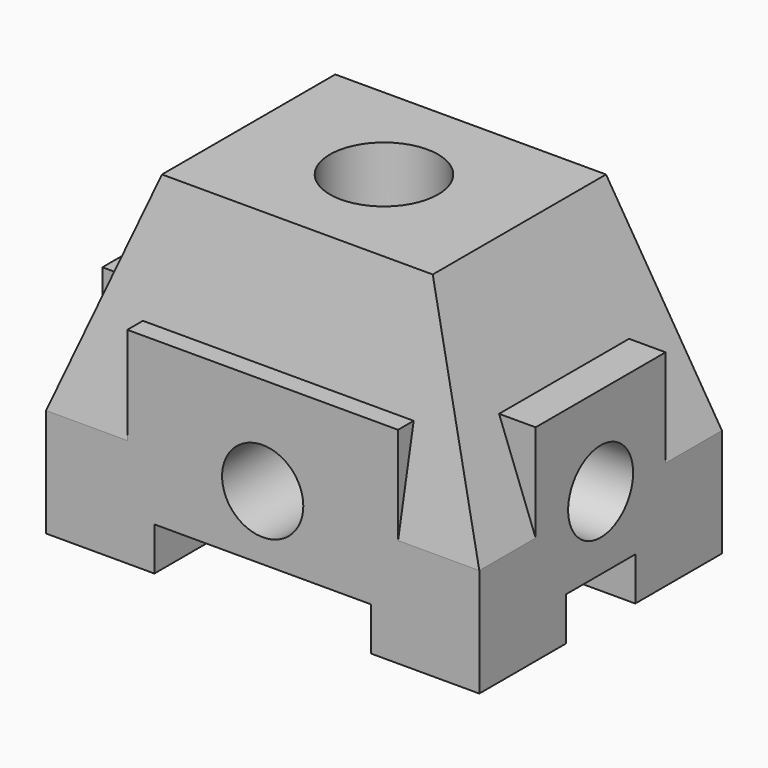
from build123d import *

# Parameters (mm, degrees)
F0_W      = 160
F0_H      = 112
F1_DEPTH  = 40
F2_W      = 80
F2_H      = 16
F3_DEPTH  = 112
F4_W      = 32
F4_H      = 16
F5_DEPTH  = 160
F6_W      = 100
F6_H      = 112
F7_DEPTH  = 36
F8_W      = 30
F8_H      = 60
F9_DEPTH  = 36
F10_W     = 30
F10_H     = 60
F11_DEPTH = 36
F15_W     = 100
F15_H     = 80
F13_W     = 160
F13_H     = 112
F17_R     = 20
F18_DEPTH = 120
F19_R     = 15
F20_DEPTH = 160
F21_R     = 15
F22_DEPTH = 112


with BuildPart() as f1:
    # F0 (on Top) → F1 (new body)
    with BuildSketch(Plane.XY):
        Rectangle(F0_W, F0_H)
    extrude(amount=F1_DEPTH)

    # F2 (on face) → F3 (cut)
    with BuildSketch(Plane.XZ.offset(56)):
        with Locations((0, 8)):
            Rectangle(F2_W, F2_H)
    extrude(amount=-F3_DEPTH, mode=Mode.SUBTRACT)

    # F4 (on face) → F5 (cut)
    with BuildSketch(Plane(origin=(-80, 0, 0), x_dir=(0, -1, 0), z_dir=(-1, 0, 0))):
        with Locations((0, 8)):
            Rectangle(F4_W, F4_H)
    extrude(amount=-F5_DEPTH, mode=Mode.SUBTRACT)

    # F6 (on face) → F7 (join)
    with BuildSketch(Plane.XY.offset(40)):
        Rectangle(F6_W, F6_H)
    extrude(amount=F7_DEPTH)

    # F8 (on face) → F9 (join)
    with BuildSketch(Plane.XY.offset(40)):
        with Locations((65, 0)):
            Rectangle(F8_W, F8_H)
    extrude(amount=F9_DEPTH)

    # F10 (on face) → F11 (join)
    with BuildSketch(Plane.XY.offset(40)):
        with Locations((-65, 0)):
            Rectangle(F10_W, F10_H)
    extrude(amount=F11_DEPTH)

    # F15 (on offset) → F16 section 0
    with BuildSketch(Plane.XY.offset(120)):
        Rectangle(F15_W, F15_H)
    # F13 (on offset) → F16 section 1
    with BuildSketch(Plane.XY.offset(40)):
        Rectangle(F13_W, F13_H)
    loft()

    # F17 (on offset) → F18 (cut)
    with BuildSketch(Plane.XY.offset(120)):
        Circle(F17_R)
    extrude(amount=-F18_DEPTH, mode=Mode.SUBTRACT)

    # F19 (on face) → F20 (cut)
    with BuildSketch(Plane.YZ.offset(80)):
        with Locations((0, 42.966103)):
            Circle(F19_R)
    extrude(amount=-F20_DEPTH, mode=Mode.SUBTRACT)

    # F21 (on face) → F22 (cut)
    with BuildSketch(Plane.XZ.offset(56)):
        with Locations((0, 39.809708)):
            Circle(F21_R)
    extrude(amount=-F22_DEPTH, mode=Mode.SUBTRACT)


solid = f1.part
